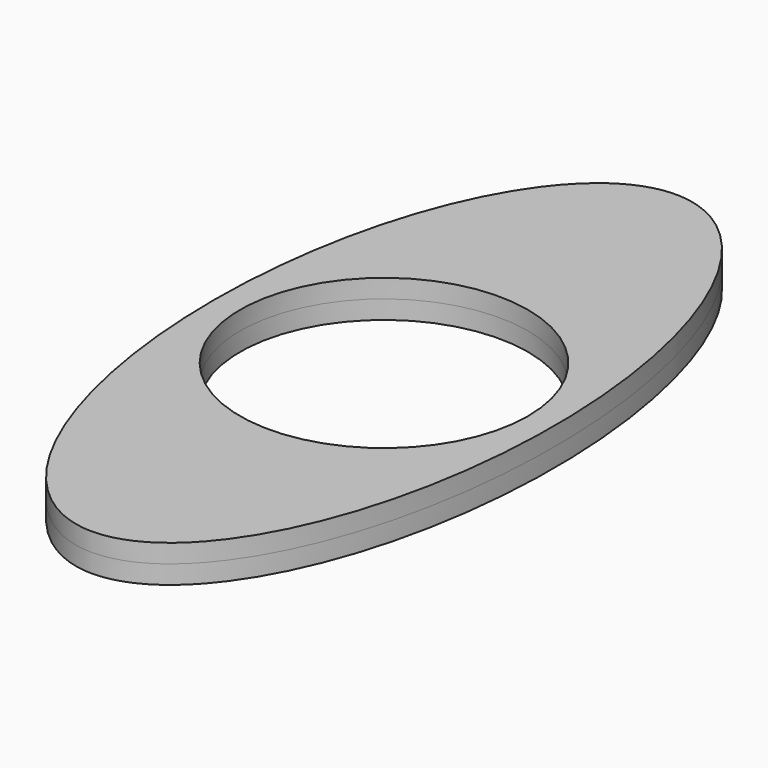
from build123d import *

# Parameters (mm, degrees)
F0_R     = 2.9591
F1_DEPTH = 0.381


with BuildPart() as f1:
    # F0 (on Top) → F1 (new body, symmetric)
    with BuildSketch(Plane.XY):
        with BuildLine():
            add(Edge.make_bspline(
                [(0, -7.5), (6.062178, -7.5), (3.031089, 3.75), (0, 15), (-3.031089, 3.75), (-6.062178, -7.5), (0, -7.5)],
                knots=[0, 0, 0, 2.094395, 2.094395, 4.18879, 4.18879, 6.283185, 6.283185, 6.283185], degree=2, weights=[1, 0.5, 1, 0.5, 1, 0.5, 1]))
        make_face()
        Circle(F0_R, mode=Mode.SUBTRACT)
    extrude(amount=F1_DEPTH, both=True)


solid = f1.part
